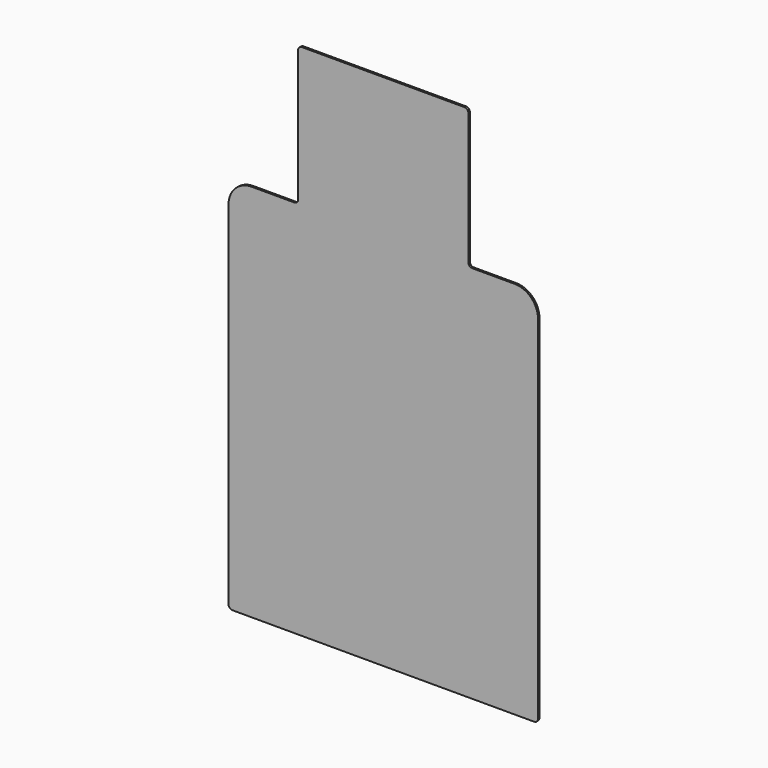
from build123d import *

# Parameters (mm, degrees)
F1_DEPTH = 1.524


with BuildPart() as f1:
    # F0 (on Front) → F1 (new body)
    with BuildSketch(Plane.XZ):
        with BuildLine():
            ThreePointArc((0, 3.175), (0.929936, 0.929936), (3.175, 0))
            Line((3.175, 0), (250.825, 0))
            ThreePointArc((250.825, 0), (253.070064, 0.929936), (254, 3.175))
            Line((254, 3.175), (254, 292.1))
            ThreePointArc((254, 292.1), (248.420384, 305.570384), (234.95, 311.15))
            Line((234.95, 311.15), (200.025, 311.15))
            ThreePointArc((200.025, 311.15), (197.779936, 312.079936), (196.85, 314.325))
            Line((196.85, 314.325), (196.85, 422.275))
            ThreePointArc((196.85, 422.275), (195.920064, 424.520064), (193.675, 425.45))
            Line((193.675, 425.45), (60.325, 425.45))
            ThreePointArc((60.325, 425.45), (58.079936, 424.520064), (57.15, 422.275))
            Line((57.15, 422.275), (57.15, 314.325))
            ThreePointArc((57.15, 314.325), (56.220064, 312.079936), (53.975, 311.15))
            Line((53.975, 311.15), (19.05, 311.15))
            ThreePointArc((19.05, 311.15), (5.579616, 305.570384), (0, 292.1))
            Line((0, 292.1), (0, 3.175))
        make_face()
    extrude(amount=F1_DEPTH)


solid = f1.part
